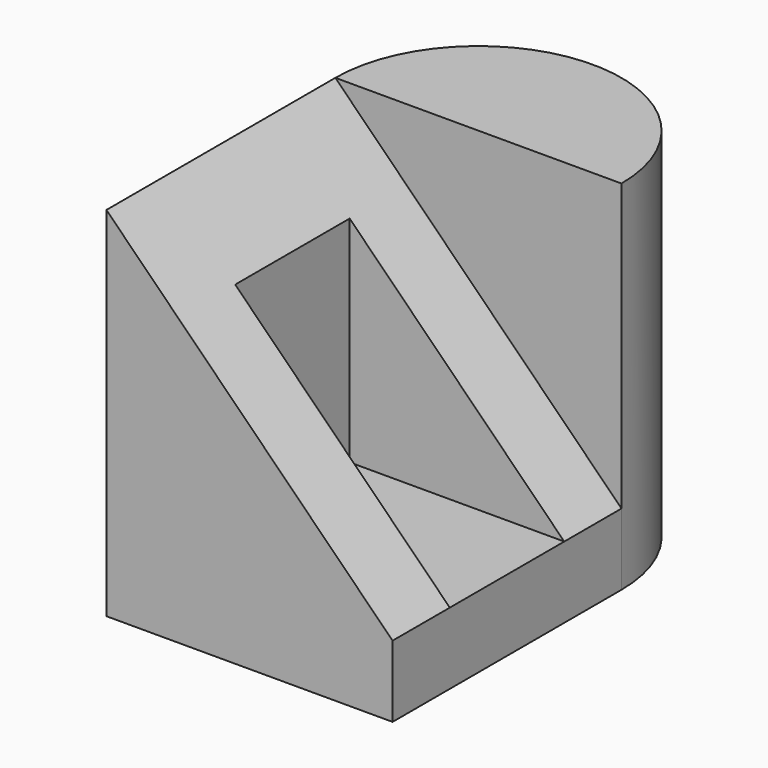
from build123d import *

# Parameters (mm, degrees)
F1_DEPTH = 50
F3_W     = 30
F3_H     = 20
F4_DEPTH = 40
F5_DEPTH = 40


with BuildPart() as f1:
    # F0 (on Top) → F1 (new body)
    with BuildSketch(Plane.XY):
        with BuildLine():
            Line((-20, 40), (-20, 0))
            Line((-20, 0), (20, 0))
            Line((20, 0), (20, 40))
            ThreePointArc((20, 40), (0, 60), (-20, 40))
        make_face()
    extrude(amount=F1_DEPTH)

    # F3 (on face) → F4 (cut)
    with BuildSketch(Plane.XY.offset(50)):
        with Locations((5, 20)):
            Rectangle(F3_W, F3_H)
    extrude(amount=-F4_DEPTH, mode=Mode.SUBTRACT)

    # F2 (on face) → F5 (cut)
    with BuildSketch(Plane.XZ):
        Polygon((20, 50), (-20, 50), (20, 10), align=None)
    extrude(amount=-F5_DEPTH, mode=Mode.SUBTRACT)


solid = f1.part
